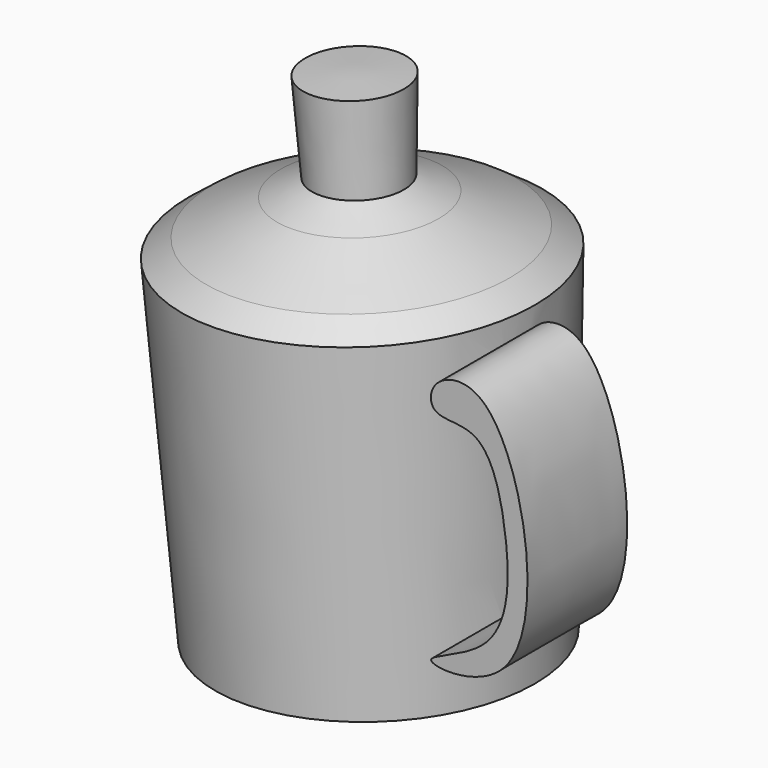
from build123d import *

# Parameters (mm, degrees)
F3_DEPTH = 25.4


with BuildPart() as f1:
    # F0 (on Front) → F1 (revolve)
    with BuildSketch(Plane.XZ):
        Polygon((-4.8328195699, 62.2896663845), (0, -35.7091613114), (31.950302422, -35.7091613114), (31.950302422, 32.2187915444), (26.8489941955, 35.440672189), (12.3505378142, 41.347451508), (5.2462936466, 44.2417735947), (5.2462936466, 62.2896663845), align=None)
    revolve(axis=Axis((-2.4164097849, 0, 13.2902525365), (0.0492552179, 0, -0.9987862251)))

    # F2 (on Front) → F3 (join)
    with BuildSketch(Plane.XZ):
        with BuildLine():
            add(Edge.make_bspline(
                [(31.950302422, 28.1914416701), (33.7198083871, 30.4795471174), (47.6684164892, 34.1067320444), (57.7075565039, -24.5583906007), (22.9182602159, -22.1309014169), (47.2004704001, -16.6380317107), (47.2611406174, 6.0078352262), (42.2993832978, 24.2037971399), (30.7955157275, 21.8191651711), (30.7508705127, 26.6404852225), (31.950302422, 28.1914416701)],
                knots=[0, 0, 0, 0, 0.1012153962, 0.3192825125, 0.445704317, 0.5593519602, 0.7096485242, 0.8405075235, 0.9313927287, 1, 1, 1, 1], degree=3))
        make_face()
    extrude(amount=F3_DEPTH)


solid = f1.part
